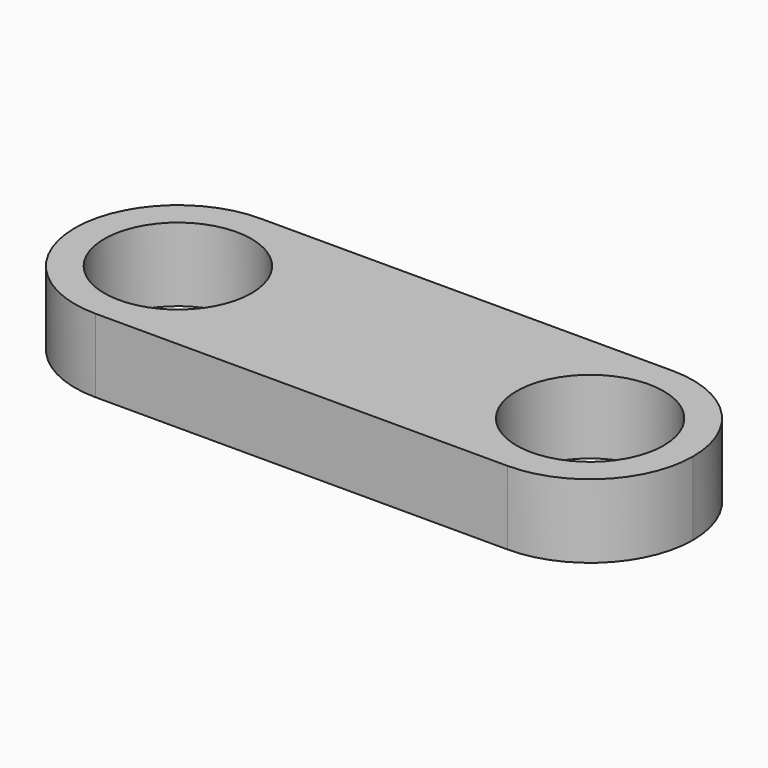
from build123d import *

# Parameters (mm, degrees)
F1_DEPTH = 2.5
F2_R     = 2.5
F3_DEPTH = 25


with BuildPart() as f1:
    # F0 (on Top) → F1 (new body)
    with BuildSketch(Plane.XY):
        with BuildLine():
            Line((-7, -3.5), (-7, 3.5))
            ThreePointArc((-7, 3.5), (-10.5, 0), (-7, -3.5))
        make_face()
        with BuildLine():
            ThreePointArc((-7, -3.5), (-4.525126, -2.474874), (-3.5, 0))
            ThreePointArc((-3.5, 0), (-4.525126, 2.474874), (-7, 3.5))
            Line((-7, 3.5), (-7, -3.5))
        make_face()
        with BuildLine():
            ThreePointArc((-7, 3.5), (-4.525126, 2.474874), (-3.5, 0))
            ThreePointArc((-3.5, 0), (-4.525126, -2.474874), (-7, -3.5))
            Line((-7, -3.5), (0, -3.5))
            Line((0, -3.5), (0, 3.5))
            Line((0, 3.5), (-7, 3.5))
        make_face()
        with BuildLine():
            Line((7, 3.5), (0, 3.5))
            Line((0, 3.5), (0, -3.5))
            Line((0, -3.5), (7, -3.5))
            ThreePointArc((7, -3.5), (3.5, 0), (7, 3.5))
        make_face()
        with BuildLine():
            ThreePointArc((10.5, 0), (9.474874, 2.474874), (7, 3.5))
            ThreePointArc((7, 3.5), (3.5, 0), (7, -3.5))
            ThreePointArc((7, -3.5), (9.474874, -2.474874), (10.5, 0))
        make_face()
    extrude(amount=F1_DEPTH)

    # F2 (on face) → F3 (cut)
    with BuildSketch(Plane.XY.offset(2.5)):
        with Locations((-7, 0)):
            Circle(F2_R)
        with Locations((7, 0)):
            Circle(F2_R)
    extrude(amount=-F3_DEPTH, mode=Mode.SUBTRACT)


solid = f1.part
